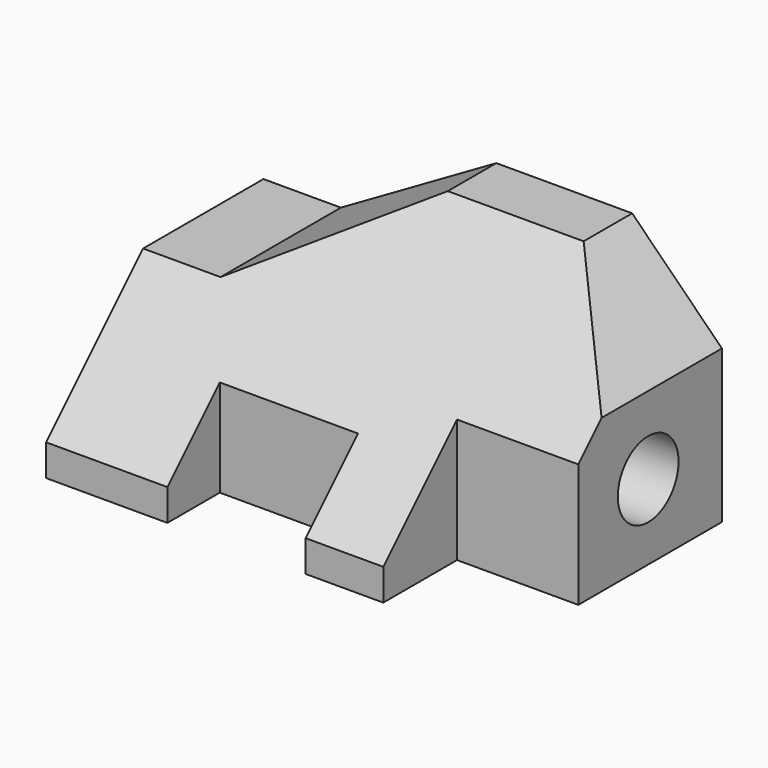
from build123d import *

# Parameters (mm, degrees)
F0_W      = 96.012
F0_H      = 50.8
F1_DEPTH  = 56.896
F3_DEPTH  = 96.013
F4_W      = 28.956
F4_H      = 31.024452
F5_DEPTH  = 13.716
F6_W      = 25.4
F6_H      = 25.4
F7_DEPTH  = 19.304
F8_R      = 7.9502
F9_DEPTH  = 31.75
F11_DEPTH = 25.4
F13_DEPTH = 56.897
F15_DEPTH = 56.897


with BuildPart() as f1:
    # F0 (on Front) → F1 (new body)
    with BuildSketch(Plane.XZ):
        Rectangle(F0_W, F0_H)
    extrude(amount=F1_DEPTH)

    # F2 (on face) → F3 (cut, through all)
    with BuildSketch(Plane.YZ.offset(48.006)):
        Polygon((-56.896, -18.796), (-12.7, 25.4), (-56.896, 25.4), align=None)
    extrude(amount=-F3_DEPTH, mode=Mode.SUBTRACT)

    # F4 (on face) → F5 (cut)
    with BuildSketch(Plane.XZ.offset(56.896)):
        with Locations((-8.128, -9.887774)):
            Rectangle(F4_W, F4_H)
    extrude(amount=-F5_DEPTH, mode=Mode.SUBTRACT)

    # F6 (on face) → F7 (cut)
    with BuildSketch(Plane.XZ.offset(56.896)):
        with Locations((35.306, -12.7)):
            Rectangle(F6_W, F6_H)
    extrude(amount=-F7_DEPTH, mode=Mode.SUBTRACT)

    # F8 (on face) → F9 (cut)
    with BuildSketch(Plane.YZ.offset(48.006)):
        with Locations((-19.304, -9.652)):
            Circle(F8_R)
    extrude(amount=-F9_DEPTH, mode=Mode.SUBTRACT)

    # F10 (on face) → F11 (cut)
    with BuildSketch(Plane.YZ.offset(48.006)):
        Polygon((-38.1, 0), (-37.592, 0), (-37.592, 0.508), align=None)
    extrude(amount=-F11_DEPTH, mode=Mode.SUBTRACT)

    # F12 (on face) → F13 (cut, through all)
    with BuildSketch(Plane(origin=(0, 0, 0), x_dir=(-1, 0, 0), z_dir=(0, 1, 0))):
        Polygon((-29.21, 25.4), (-48.006, 25.4), (-48.006, 6.604), align=None)
    extrude(amount=-F13_DEPTH, mode=Mode.SUBTRACT)

    # F14 (on face) → F15 (cut, through all)
    with BuildSketch(Plane(origin=(0, 0, 0), x_dir=(-1, 0, 0), z_dir=(0, 1, 0))):
        Polygon((48.006, 25.4), (-0.762, 25.4), (31.793627, 6.604), (48.006, 6.604), align=None)
    extrude(amount=-F15_DEPTH, mode=Mode.SUBTRACT)


solid = f1.part
